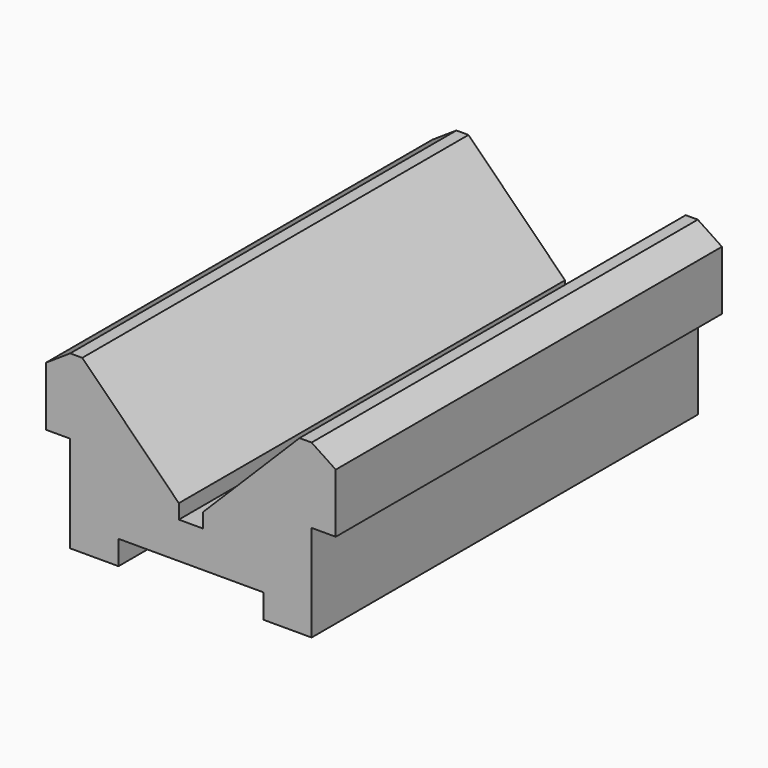
from build123d import *

# Parameters (mm, degrees)
F1_DEPTH = 100


with BuildPart() as f1:
    # F0 (on Front) → F1 (new body)
    with BuildSketch(Plane.XZ):
        Polygon((-5, 3.11111), (-5, 6.11111), (-25, 26.11111), (-27.5, 26.11111), (-32.5, 22.794486), (-32.5, 10.547628), (-27.5, 10.547628), (-27.5, -9.452372), (-17.5, -9.452372), (-17.5, -4.452372), (12.5, -4.452372), (12.5, -9.452372), (22.5, -9.452372), (22.5, 10.547628), (27.5, 10.547628), (27.5, 22.794486), (22.5, 26.11111), (20, 26.11111), (0, 6.11111), (0, 3.11111), align=None)
    extrude(amount=-F1_DEPTH)


solid = f1.part
